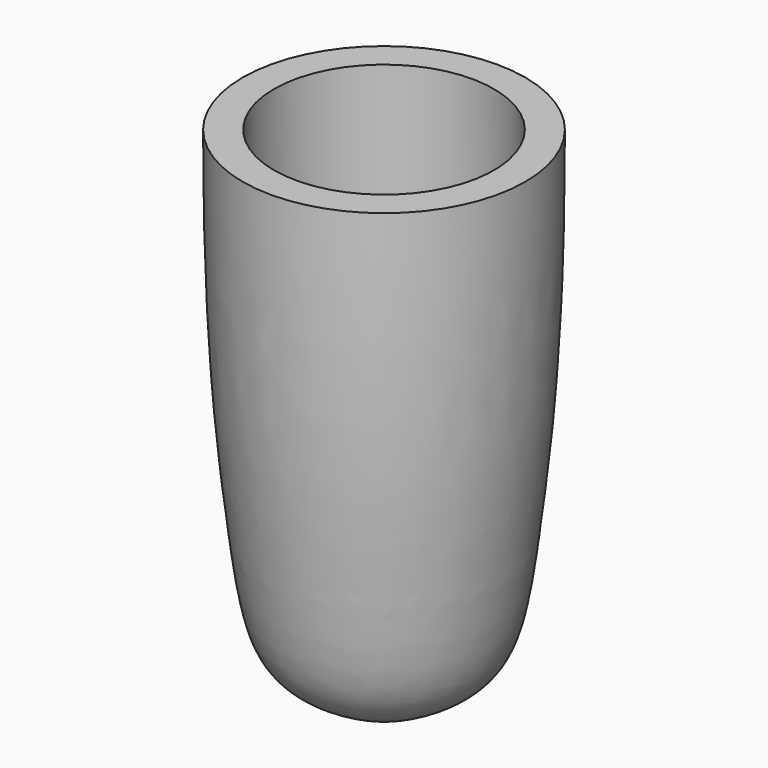
from build123d import *


with BuildPart() as part:
    # Sketch → Revolution (revolve)
    with BuildSketch(Plane.XZ):
        with BuildLine():
            Line((-8.55, 0), (-10.55, 24))
            Line((-10.55, 24), (-10.55, 39))
            Line((-10.55, 39), (-13.55, 39))
            add(Edge.make_bspline(
                [(-13.55, 39), (-13.554914, 22.378107), (-11.793383, 5.373858), (-10.390789, -4.375661), (-7.074185, -7.462106), (-2.441811, -9.668815), (-2.441811, -9.668815), (0, -9.905655)],
                knots=[0, 0, 0, 0, 0.2, 0.4, 0.6, 0.8, 1, 1, 1, 1], degree=3))
            Line((0, -9.905655), (0, -7.5))
            add(Edge.make_bspline(
                [(-8.55, 0), (-6.341146, -8), (0, -7.5), (0, -7.5)],
                knots=[0, 0, 0, 0, 1, 1, 1, 1], degree=3))
        make_face()
    revolve(axis=Axis((0, 0, 0), (0, 0, 1)))


solid = part.part
